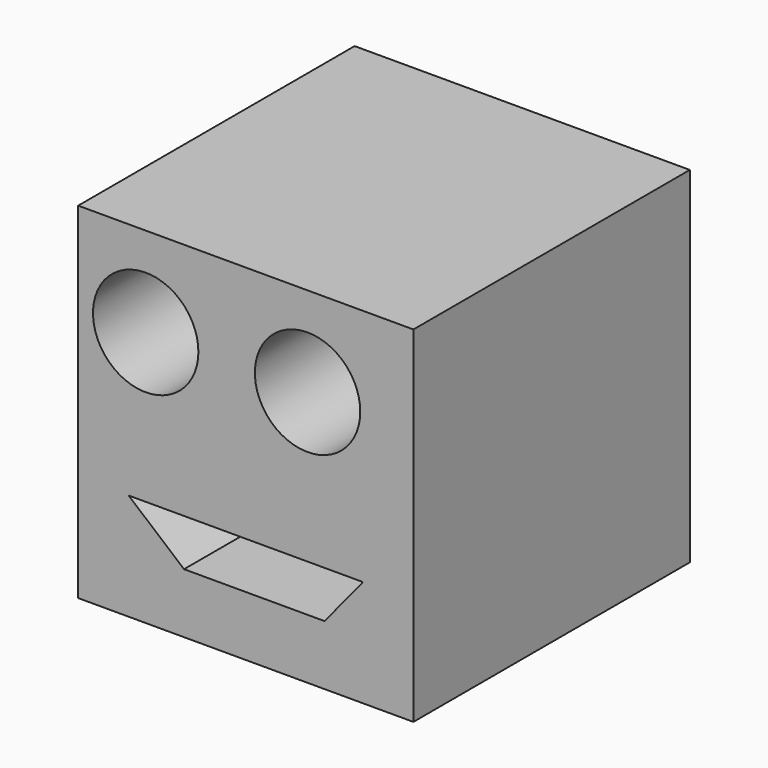
from build123d import *

# Parameters (mm, degrees)
F0_W     = 24.64179
F0_H     = 25.4
F1_DEPTH = 25.4
F2_R     = 3.8735
F2_R_2   = 3.87346
F3_DEPTH = 22.86


with BuildPart() as f1:
    # F0 (on Front) → F1 (new body)
    with BuildSketch(Plane.XZ):
        Rectangle(F0_W, F0_H)
    extrude(amount=F1_DEPTH)

    # F2 (on face) → F3 (cut)
    with BuildSketch(Plane.XZ.offset(25.4)):
        Polygon((8.611645, -4.853836), (-8.611646, -4.853836), (-4.540686, -8.298493), (0, -8.298493), (5.793288, -8.298493), align=None)
        with Locations((4.540684, 6.106439)):
            Circle(F2_R)
        with Locations((-7.359042, 6.106439)):
            Circle(F2_R_2)
    extrude(amount=-F3_DEPTH, mode=Mode.SUBTRACT)


solid = f1.part
